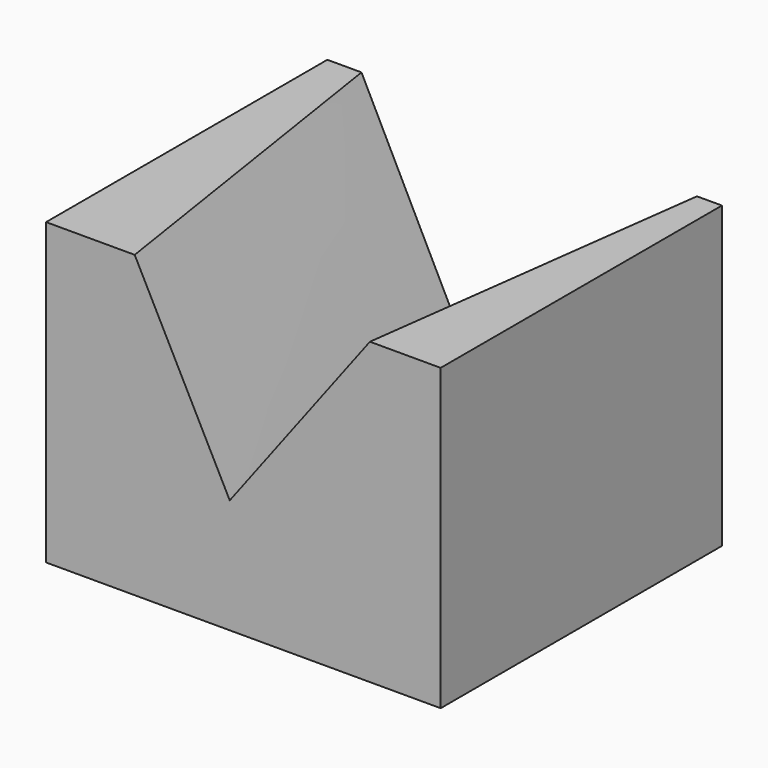
from build123d import *

# Parameters (mm, degrees)
F0_W     = 50.504707
F0_H     = 44.99888
F1_DEPTH = 38.354


with BuildPart() as f1:
    # F0 (on Top) → F1 (new body)
    with BuildSketch(Plane.XY):
        with Locations((25.252353, -22.49944)):
            Rectangle(F0_W, F0_H)
    extrude(amount=F1_DEPTH)

    # F3 (on face) → F4 section 0
    with BuildSketch(Plane(origin=(0, 0, 0), x_dir=(-1, 0, 0), z_dir=(0, 1, 0))):
        Polygon((-4.371133, 38.354), (-47.308076, 38.354), (-21.310192, 4.424161), align=None)
    # F2 (on face) → F4 section 1
    with BuildSketch(Plane.XZ.offset(44.99888)):
        Polygon((41.448478, 38.354), (11.341625, 38.354), (23.508094, 14.638858), align=None)
    loft(mode=Mode.SUBTRACT)


solid = f1.part
